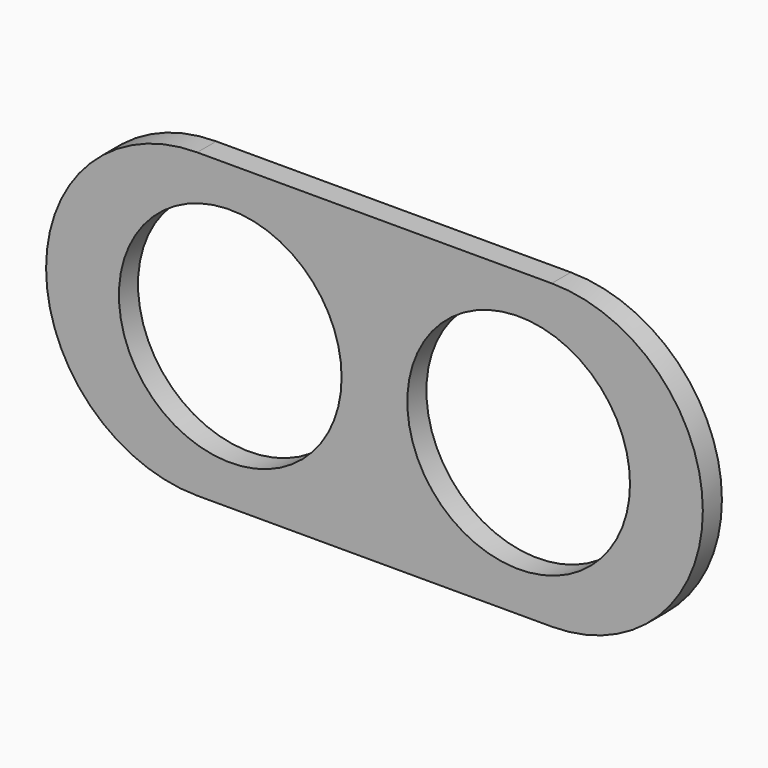
from build123d import *

# Parameters (mm, degrees)
F1_DEPTH = 30
F0_R     = 140
F2_DEPTH = 30


with BuildPart() as f1:
    # F0 (on Front) → F1 (new body)
    with BuildSketch(Plane.XZ):
        with BuildLine():
            Line((-222.906804, -190), (0, -190))
            Line((0, -190), (222.906804, -190))
            ThreePointArc((222.906804, -190), (412.906804, 0), (222.906804, 190))
            Line((222.906804, 190), (0, 190))
            Line((0, 190), (-222.906804, 190))
            ThreePointArc((-222.906804, 190), (-412.906804, 0), (-222.906804, -190))
        make_face()
        with BuildLine():
            add(Edge.make_bspline(
                [(-11, 0), (-11, 285.788383), (-289.930103, 142.894192), (-568.860206, 0), (-289.930103, -142.894192), (-11, -285.788383), (-11, 0)],
                knots=[0, 0, 0, 2.094395, 2.094395, 4.18879, 4.18879, 6.283185, 6.283185, 6.283185], degree=2, weights=[1, 0.5, 1, 0.5, 1, 0.5, 1]))
        make_face(mode=Mode.SUBTRACT)
        with BuildLine():
            add(Edge.make_bspline(
                [(11, 0), (11, -285.788383), (289.930103, -142.894192), (568.860206, 0), (289.930103, 142.894192), (11, 285.788383), (11, 0)],
                knots=[0, 0, 0, 2.094395, 2.094395, 4.18879, 4.18879, 6.283185, 6.283185, 6.283185], degree=2, weights=[1, 0.5, 1, 0.5, 1, 0.5, 1]))
        make_face(mode=Mode.SUBTRACT)
    extrude(amount=F1_DEPTH)


with BuildPart() as f2:
    # F0 (on Front) → F2 (new body)
    with BuildSketch(Plane.XZ):
        with BuildLine():
            Line((-222.906804, -190), (0, -190))
            Line((0, -190), (222.906804, -190))
            ThreePointArc((222.906804, -190), (412.906804, 0), (222.906804, 190))
            Line((222.906804, 190), (0, 190))
            Line((0, 190), (-222.906804, 190))
            ThreePointArc((-222.906804, 190), (-412.906804, 0), (-222.906804, -190))
        make_face()
        with BuildLine():
            add(Edge.make_bspline(
                [(-11, 0), (-11, 285.788383), (-289.930103, 142.894192), (-568.860206, 0), (-289.930103, -142.894192), (-11, -285.788383), (-11, 0)],
                knots=[0, 0, 0, 2.094395, 2.094395, 4.18879, 4.18879, 6.283185, 6.283185, 6.283185], degree=2, weights=[1, 0.5, 1, 0.5, 1, 0.5, 1]))
        make_face(mode=Mode.SUBTRACT)
        with BuildLine():
            add(Edge.make_bspline(
                [(11, 0), (11, -285.788383), (289.930103, -142.894192), (568.860206, 0), (289.930103, 142.894192), (11, 285.788383), (11, 0)],
                knots=[0, 0, 0, 2.094395, 2.094395, 4.18879, 4.18879, 6.283185, 6.283185, 6.283185], degree=2, weights=[1, 0.5, 1, 0.5, 1, 0.5, 1]))
        make_face(mode=Mode.SUBTRACT)
        with BuildLine():
            add(Edge.make_bspline(
                [(-11, 0), (-11, 285.788383), (-289.930103, 142.894192), (-568.860206, 0), (-289.930103, -142.894192), (-11, -285.788383), (-11, 0)],
                knots=[0, 0, 0, 2.094395, 2.094395, 4.18879, 4.18879, 6.283185, 6.283185, 6.283185], degree=2, weights=[1, 0.5, 1, 0.5, 1, 0.5, 1]))
        make_face()
        with Locations((-181.31551, 0)):
            Circle(F0_R, mode=Mode.SUBTRACT)
        with BuildLine():
            add(Edge.make_bspline(
                [(11, 0), (11, -285.788383), (289.930103, -142.894192), (568.860206, 0), (289.930103, 142.894192), (11, 285.788383), (11, 0)],
                knots=[0, 0, 0, 2.094395, 2.094395, 4.18879, 4.18879, 6.283185, 6.283185, 6.283185], degree=2, weights=[1, 0.5, 1, 0.5, 1, 0.5, 1]))
        make_face()
        with Locations((181.31551, 0)):
            Circle(F0_R, mode=Mode.SUBTRACT)
    extrude(amount=F2_DEPTH)


solid = Compound([f1.part, f2.part])
